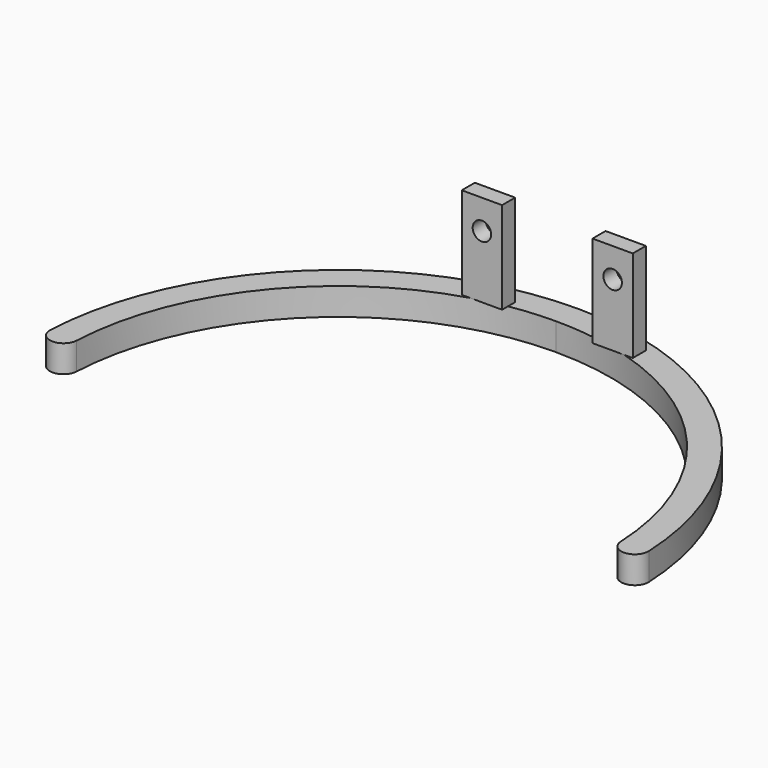
from build123d import *

# Parameters (mm, degrees)
SKETCH023_R  = 1.7
PAD012_DEPTH = 3
PAD013_DEPTH = 5


with BuildPart() as part:
    # Sketch023 → Pad012 (new body)
    with BuildSketch(Plane(origin=(0, 75, 0), x_dir=(-1, 0, 0), z_dir=(0, 1, 0))):
        Polygon((-15.7, -7.5), (-15.7, 9.4), (-12, 9.4), (-8.3, 9.4), (-8.3, -7.5), align=None)
        with Locations((-12, 4)):
            Circle(SKETCH023_R, mode=Mode.SUBTRACT)
    pad012 = extrude(amount=PAD012_DEPTH)

    # Sketch025 (on Face5 of Pad012) → Pad013 (join)
    with BuildSketch(Plane(origin=(0, 0, -7.5), x_dir=(1, 0, 0), z_dir=(0, 0, -1))):
        with BuildLine():
            ThreePointArc((0, -77.043425), (34.503276, -63.23077), (49.943278, -29.424384))
            ThreePointArc((54.937607, -29.662457), (52.559479, -27.046261), (49.943278, -29.424384))
            ThreePointArc((0, -82.043425), (37.953611, -66.849497), (54.937607, -29.662457))
            Line((0, -77.043425), (0, -82.043425))
        make_face()
    pad013 = extrude(amount=PAD013_DEPTH)

    # Mirrored007: Pad013, Pad012 across Sketch025 V_Axis
    add(pad013.mirror(Plane(origin=(0, 0, -7.5), x_dir=(0, 0, -1), z_dir=(1, 0, 0))))
    add(pad012.mirror(Plane(origin=(0, 0, -7.5), x_dir=(0, 0, -1), z_dir=(1, 0, 0))))


solid = part.part
